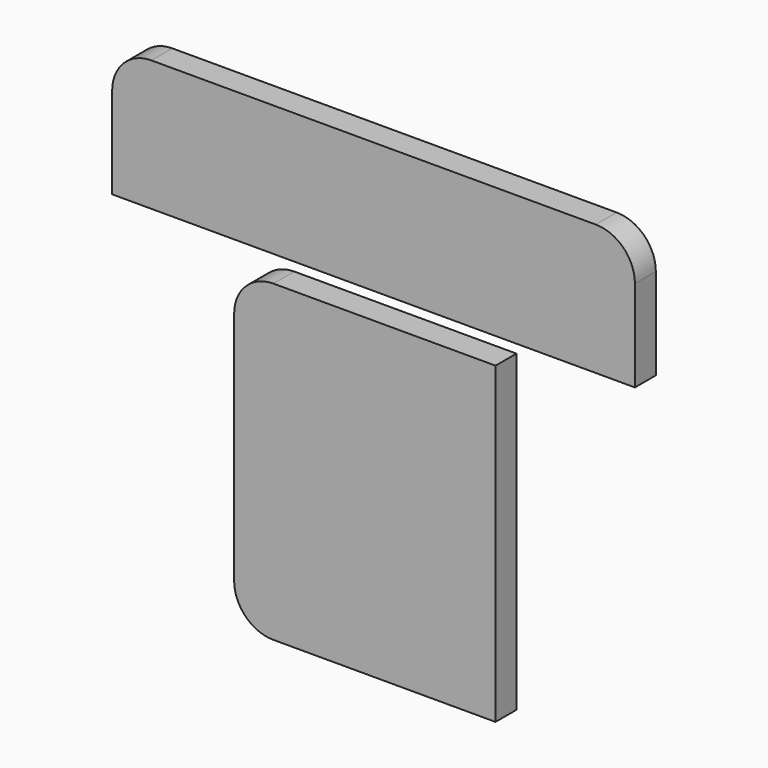
from build123d import *

# Parameters (mm, degrees)
F1_DEPTH = 1


with BuildPart() as f1:
    # F0 (on Front) → F1 (new body)
    with BuildSketch(Plane.XZ):
        with BuildLine():
            Line((24.834883, -19.559099), (7.834883, -19.559099))
            ThreePointArc((7.834883, -19.559099), (6.774223, -19.998439), (6.334883, -21.059099))
            Line((6.334883, -21.059099), (6.334883, -24.559099))
            Line((6.334883, -24.559099), (26.334883, -24.559099))
            Line((26.334883, -24.559099), (26.334883, -21.059099))
            ThreePointArc((26.334883, -21.059099), (25.895543, -19.998439), (24.834883, -19.559099))
        make_face()
        with BuildLine():
            Line((21.00155, -25.559099), (12.50155, -25.559099))
            ThreePointArc((12.50155, -25.559099), (11.440889, -25.998439), (11.00155, -27.059099))
            Line((11.00155, -27.059099), (11.00155, -36.059099))
            ThreePointArc((11.00155, -36.059099), (11.440889, -37.119759), (12.50155, -37.559099))
            Line((12.50155, -37.559099), (21.00155, -37.559099))
            Line((21.00155, -37.559099), (21.00155, -25.559099))
        make_face()
    extrude(amount=F1_DEPTH)


solid = f1.part
